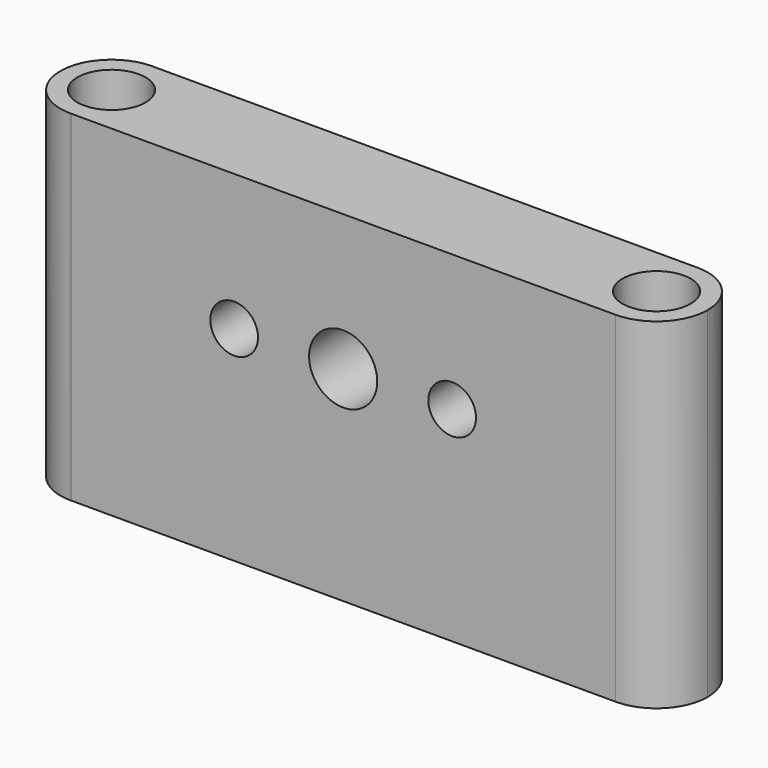
from build123d import *

# Parameters (mm, degrees)
F0_R     = 2.5
F1_DEPTH = 25
F2_R     = 2.5
F2_R_2   = 1.75
F3_DEPTH = 25


with BuildPart() as f1:
    # F0 (on Top) → F1 (new body)
    with BuildSketch(Plane.XY):
        with BuildLine():
            ThreePointArc((-22.2987003433, 3.9093026814), (-22.4135808771, 3.9110577088), (-22.5284612561, 3.9092925715))
            Line((-22.5284612561, 3.9092925715), (-22.2987003433, 3.9093026814))
        make_face()
        with BuildLine():
            Line((-22.2987003433, 3.9093026814), (-22.5284612561, 3.9092925715))
            ThreePointArc((-22.5284612561, 3.9092925715), (-26.1633321793, 0.1360043849), (-22.4783690343, -3.5883797236))
            Line((-22.4783690343, -3.5883797236), (-22.3485679986, -3.5883815462))
            ThreePointArc((-22.3485679986, -3.5883815462), (-19.7389365261, -2.4675655475), (-18.6634158694, 0.1610577124))
            ThreePointArc((-18.6634158694, 0.1610577124), (-19.7215128973, 2.7718350657), (-22.2987003433, 3.9093026814))
        make_face()
        with Locations((-22.4134158694, 0.1610577124)):
            Circle(F0_R, mode=Mode.SUBTRACT)
        with BuildLine():
            ThreePointArc((21.3365841306, 0.1610577124), (20.2381762203, 2.8127664802), (17.5864191229, 3.9110577088))
            ThreePointArc((17.5864191229, 3.9110577088), (13.836584131, 0.161001536), (17.5865314757, -3.5889422872))
            ThreePointArc((17.5865314757, -3.5889422872), (20.2382159436, -2.4906113333), (21.3365841306, 0.1610577124))
        make_face()
        with Locations((17.5865841306, 0.1610577124)):
            Circle(F0_R, mode=Mode.SUBTRACT)
        with BuildLine():
            Line((-22.2987003433, 3.9093026814), (-22.5284612561, 3.9092925715))
            ThreePointArc((-22.5284612561, 3.9092925715), (-26.1633321793, 0.1360043849), (-22.4783690343, -3.5883797236))
            Line((-22.4783690343, -3.5883797236), (-22.3485679986, -3.5883815462))
            ThreePointArc((-22.3485679986, -3.5883815462), (-19.7389365261, -2.4675655475), (-18.6634158694, 0.1610577124))
            ThreePointArc((-18.6634158694, 0.1610577124), (-19.7215128973, 2.7718350657), (-22.2987003433, 3.9093026814))
        make_face()
        with Locations((-22.4134158694, 0.1610577124)):
            Circle(F0_R, mode=Mode.SUBTRACT)
        with BuildLine():
            Line((17.5864191229, 3.9110577088), (-22.2987003433, 3.9093026814))
            ThreePointArc((-22.2987003433, 3.9093026814), (-19.7215128973, 2.7718350657), (-18.6634158694, 0.1610577124))
            ThreePointArc((-18.6634158694, 0.1610577124), (-19.7389365261, -2.4675655475), (-22.3485679986, -3.5883815462))
            Line((-22.3485679986, -3.5883815462), (17.5865314757, -3.5889422872))
            ThreePointArc((17.5865314757, -3.5889422872), (13.836584131, 0.161001536), (17.5864191229, 3.9110577088))
        make_face()
    extrude(amount=F1_DEPTH)

    # F2 (on face) → F3 (cut)
    with BuildSketch(Plane(origin=(-5.039e-05, -3.5886953486, 0), x_dir=(0.9999999999, -1.40413e-05, 0), z_dir=(-1.40413e-05, -0.9999999999, 0))):
        with Locations((-2.4134181326, 15)):
            Circle(F2_R)
        with Locations((-10.4134181326, 15)):
            Circle(F2_R_2)
        with Locations((5.5865818674, 15)):
            Circle(F2_R_2)
    extrude(amount=-F3_DEPTH, mode=Mode.SUBTRACT)


solid = f1.part
